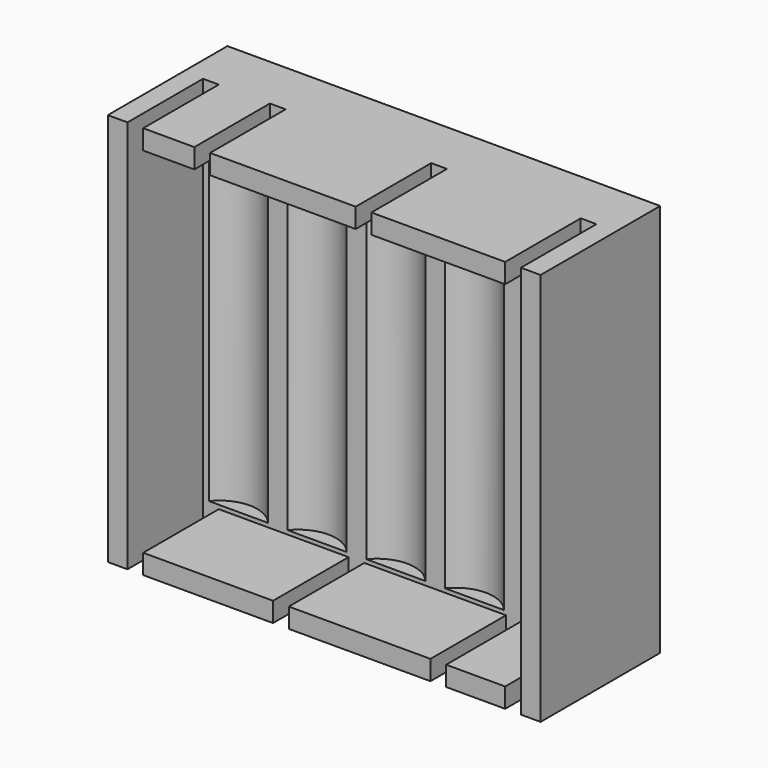
from build123d import *

# Parameters (mm, degrees)
BOX004_W          = 2
BOX004_H          = 12
BOX004_DEPTH      = 5
BOX005_W          = 2
BOX005_H          = 12
BOX005_DEPTH      = 5
BOX008_W          = 2
BOX008_H          = 12
BOX008_DEPTH      = 5
BOX003_W          = 2
BOX003_H          = 12
BOX003_DEPTH      = 5
BOX038_W          = 2
BOX038_H          = 12
BOX038_DEPTH      = 5
BOX028_W          = 2
BOX028_H          = 12
BOX028_DEPTH      = 5
BOX007_W          = 2
BOX007_H          = 12
BOX007_DEPTH      = 5
BOX039_W          = 2
BOX039_H          = 12
BOX039_DEPTH      = 5
BOX036_W          = 2.5
BOX036_H          = 12
BOX036_DEPTH      = 50
BOX037_W          = 2.5
BOX037_H          = 12
BOX037_DEPTH      = 50
BOX035_W          = 55
BOX035_H          = 12
BOX035_DEPTH      = 2.5
BOX034_W          = 55
BOX034_H          = 12
BOX034_DEPTH      = 2.5
CYLINDER066_R     = 1.65
CYLINDER066_DEPTH = 1.6
CYLINDER065_R     = 4.8
CYLINDER065_DEPTH = 42
CYLINDER068_R     = 1.65
CYLINDER068_DEPTH = 1.6
CYLINDER067_R     = 4.8
CYLINDER067_DEPTH = 42
CYLINDER070_R     = 1.65
CYLINDER070_DEPTH = 1.6
CYLINDER069_R     = 4.8
CYLINDER069_DEPTH = 42
CYLINDER072_R     = 1.65
CYLINDER072_DEPTH = 1.6
CYLINDER071_R     = 4.8
CYLINDER071_DEPTH = 42
CYLINDER074_R     = 1.65
CYLINDER074_DEPTH = 1.6
CYLINDER073_R     = 4.8
CYLINDER073_DEPTH = 42
BOX032_W          = 55
BOX032_H          = 7
BOX032_DEPTH      = 50


with BuildPart() as cube004:
    # Box004 → Box004 (new body)
    with BuildSketch(Plane(origin=(18.5, -9, 46), x_dir=(1, 0, 0), z_dir=(0, 0, 1))):
        with Locations((1, 6)):
            Rectangle(BOX004_W, BOX004_H)
    extrude(amount=BOX004_DEPTH)


with BuildPart() as cube005:
    # Box005 → Box005 (new body)
    with BuildSketch(Plane(origin=(-2, -9, 46), x_dir=(1, 0, 0), z_dir=(0, 0, 1))):
        with Locations((1, 6)):
            Rectangle(BOX005_W, BOX005_H)
    extrude(amount=BOX005_DEPTH)


with BuildPart() as cube008:
    # Box008 → Box008 (new body)
    with BuildSketch(Plane(origin=(8, -9, -2), x_dir=(1, 0, 0), z_dir=(0, 0, 1))):
        with Locations((1, 6)):
            Rectangle(BOX008_W, BOX008_H)
    extrude(amount=BOX008_DEPTH)


with BuildPart() as fusion107:
    # Box003 → Box003 (new body)
    with BuildSketch(Plane(origin=(28, -9, -2), x_dir=(1, 0, 0), z_dir=(0, 0, 1))):
        with Locations((1, 6)):
            Rectangle(BOX003_W, BOX003_H)
    extrude(amount=BOX003_DEPTH)

    # Fusion107: union Cube004, Cube005, Cube008
    add(cube004.part)
    add(cube005.part)
    add(cube008.part)


with BuildPart() as cube036:
    # Box038 → Box038 (new body)
    with BuildSketch(Plane(origin=(-10.5, -9, 46), x_dir=(1, 0, 0), z_dir=(0, 0, 1))):
        with Locations((1, 6)):
            Rectangle(BOX038_W, BOX038_H)
    extrude(amount=BOX038_DEPTH)


with BuildPart() as cube027:
    # Box028 → Box028 (new body)
    with BuildSketch(Plane(origin=(37.5, -9, -2), x_dir=(1, 0, 0), z_dir=(0, 0, 1))):
        with Locations((1, 6)):
            Rectangle(BOX028_W, BOX028_H)
    extrude(amount=BOX028_DEPTH)


with BuildPart() as cube007:
    # Box007 → Box007 (new body)
    with BuildSketch(Plane(origin=(37.5, -9, 46), x_dir=(1, 0, 0), z_dir=(0, 0, 1))):
        with Locations((1, 6)):
            Rectangle(BOX007_W, BOX007_H)
    extrude(amount=BOX007_DEPTH)


with BuildPart() as fusion106:
    # Box039 → Box039 (new body)
    with BuildSketch(Plane(origin=(-10.5, -9, -2), x_dir=(1, 0, 0), z_dir=(0, 0, 1))):
        with Locations((1, 6)):
            Rectangle(BOX039_W, BOX039_H)
    extrude(amount=BOX039_DEPTH)

    # Fusion106: union Cube036, Cube027, Cube007
    add(cube036.part)
    add(cube027.part)
    add(cube007.part)


with BuildPart() as cube034:
    # Box036 → Box036 (new body)
    with BuildSketch(Plane(origin=(-13, -9, -1), x_dir=(1, 0, 0), z_dir=(0, 0, 1))):
        with Locations((1.25, 6)):
            Rectangle(BOX036_W, BOX036_H)
    extrude(amount=BOX036_DEPTH)


with BuildPart() as cube035:
    # Box037 → Box037 (new body)
    with BuildSketch(Plane(origin=(39.5, -9, -1), x_dir=(1, 0, 0), z_dir=(0, 0, 1))):
        with Locations((1.25, 6)):
            Rectangle(BOX037_W, BOX037_H)
    extrude(amount=BOX037_DEPTH)


with BuildPart() as cube033:
    # Box035 → Box035 (new body)
    with BuildSketch(Plane(origin=(-13, -9, 46.5), x_dir=(1, 0, 0), z_dir=(0, 0, 1))):
        with Locations((27.5, 6)):
            Rectangle(BOX035_W, BOX035_H)
    extrude(amount=BOX035_DEPTH)


with BuildPart() as cut045024:
    # Box034 → Box034 (new body)
    with BuildSketch(Plane(origin=(-13, -9, -1), x_dir=(1, 0, 0), z_dir=(0, 0, 1))):
        with Locations((27.5, 6)):
            Rectangle(BOX034_W, BOX034_H)
    extrude(amount=BOX034_DEPTH)

    # Fusion105: union Cube034, Cube035, Cube033
    add(cube034.part)
    add(cube035.part)
    add(cube033.part)

    # Cut045023: cut Fusion106
    add(fusion106.part, mode=Mode.SUBTRACT)

    # Cut045024: cut Fusion107
    add(fusion107.part, mode=Mode.SUBTRACT)


with BuildPart() as cylinder118:
    # Cylinder066 → Cylinder066 (new body)
    with BuildSketch(Plane.XY.offset(42)):
        Circle(CYLINDER066_R)
    extrude(amount=CYLINDER066_DEPTH)


with BuildPart() as fusion097:
    # Cylinder065 → Cylinder065 (new body)
    with BuildSketch(Plane.XY):
        Circle(CYLINDER065_R)
    extrude(amount=CYLINDER065_DEPTH)

    # Fusion097: union Cylinder118
    add(cylinder118.part)


with BuildPart() as fusion097_1:
    # Fusion097 placement: moved
    add(fusion097.part.moved(Location((2, 0, 0))))


with BuildPart() as cylinder120:
    # Cylinder068 → Cylinder068 (new body)
    with BuildSketch(Plane.XY.offset(42)):
        Circle(CYLINDER068_R)
    extrude(amount=CYLINDER068_DEPTH)


with BuildPart() as fusion098:
    # Cylinder067 → Cylinder067 (new body)
    with BuildSketch(Plane.XY):
        Circle(CYLINDER067_R)
    extrude(amount=CYLINDER067_DEPTH)

    # Fusion098: union Cylinder120
    add(cylinder120.part)


with BuildPart() as fusion098_1:
    # Fusion098 placement: moved
    add(fusion098.part.moved(Location((12, 0, 0))))


with BuildPart() as cylinder122:
    # Cylinder070 → Cylinder070 (new body)
    with BuildSketch(Plane.XY.offset(42)):
        Circle(CYLINDER070_R)
    extrude(amount=CYLINDER070_DEPTH)


with BuildPart() as fusion099:
    # Cylinder069 → Cylinder069 (new body)
    with BuildSketch(Plane.XY):
        Circle(CYLINDER069_R)
    extrude(amount=CYLINDER069_DEPTH)

    # Fusion099: union Cylinder122
    add(cylinder122.part)


with BuildPart() as fusion099_1:
    # Fusion099 placement: moved
    add(fusion099.part.moved(Location((22, 0, 0))))


with BuildPart() as cylinder124:
    # Cylinder072 → Cylinder072 (new body)
    with BuildSketch(Plane.XY.offset(42)):
        Circle(CYLINDER072_R)
    extrude(amount=CYLINDER072_DEPTH)


with BuildPart() as fusion100:
    # Cylinder071 → Cylinder071 (new body)
    with BuildSketch(Plane.XY):
        Circle(CYLINDER071_R)
    extrude(amount=CYLINDER071_DEPTH)

    # Fusion100: union Cylinder124
    add(cylinder124.part)


with BuildPart() as fusion100_1:
    # Fusion100 placement: moved
    add(fusion100.part.moved(Location((32, 0, 0))))


with BuildPart() as cylinder126:
    # Cylinder074 → Cylinder074 (new body)
    with BuildSketch(Plane.XY.offset(42)):
        Circle(CYLINDER074_R)
    extrude(amount=CYLINDER074_DEPTH)


with BuildPart() as aaa_batts001:
    # Cylinder073 → Cylinder073 (new body)
    with BuildSketch(Plane.XY):
        Circle(CYLINDER073_R)
    extrude(amount=CYLINDER073_DEPTH)

    # Fusion101: union Cylinder126
    add(cylinder126.part)


with BuildPart() as aaa_batts001_1:
    # Fusion101 placement: moved
    add(aaa_batts001.part.moved(Location((-8, 0, 0))))

    # Fusion102: union Fusion097, Fusion098, Fusion099, Fusion100
    add(fusion097_1.part)
    add(fusion098_1.part)
    add(fusion099_1.part)
    add(fusion100_1.part)


with BuildPart() as aaa_batts001_2:
    # Fusion102 placement: moved
    add(aaa_batts001_1.part.moved(Location((2, 0, 2))))


with BuildPart() as fusion110:
    # Box032 → Box032 (new body)
    with BuildSketch(Plane(origin=(-13, 3, -1), x_dir=(1, 0, 0), z_dir=(0, 0, 1))):
        with Locations((27.5, 3.5)):
            Rectangle(BOX032_W, BOX032_H)
    extrude(amount=BOX032_DEPTH)

    # Cut045022: cut AAA Batts001
    add(aaa_batts001_2.part, mode=Mode.SUBTRACT)

    # Fusion110: union Cut045024
    add(cut045024.part)


solid = fusion110.part
